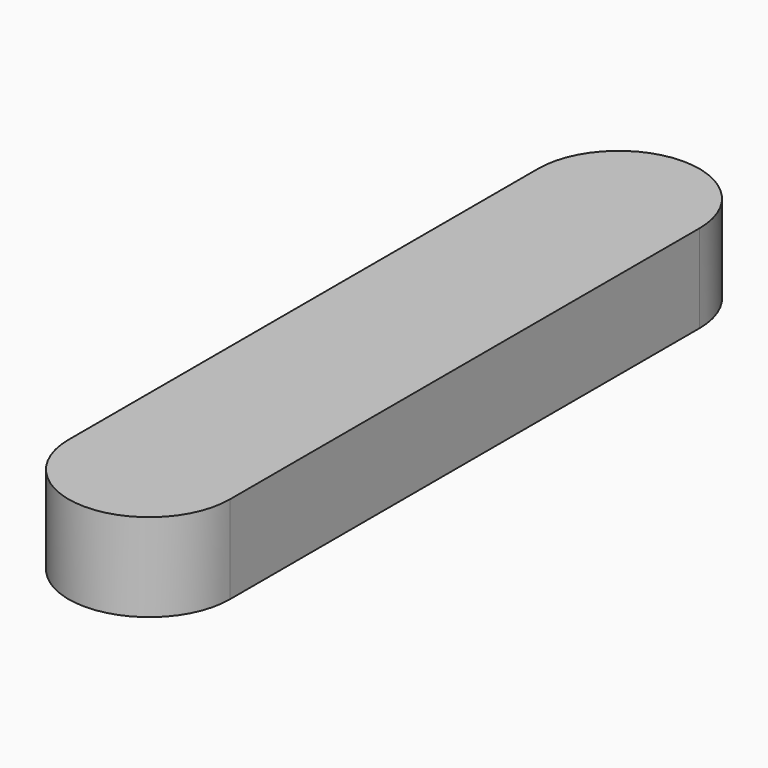
from build123d import *

# Parameters (mm, degrees)
F0_W     = 100
F0_H     = 100
F1_DEPTH = 3
F2_W     = 100
F2_H     = 100
F3_DEPTH = 3.001


with BuildPart() as f1:
    # F0 (on Top) → F1 (new body)
    with BuildSketch(Plane.XY):
        with Locations((50, 0)):
            Rectangle(F0_W, F0_H)
    extrude(amount=F1_DEPTH)

    # F2 (on face) → F3 (cut, through all)
    with BuildSketch(Plane.XY.offset(3)):
        with Locations((50, 0)):
            Rectangle(F2_W, F2_H)
        with BuildLine():
            Line((47.25, -16.755387), (47.25, 3.244613))
            ThreePointArc((47.25, 3.244613), (50, 5.994613), (52.75, 3.244613))
            Line((52.75, 3.244613), (52.75, -16.755387))
            ThreePointArc((52.75, -16.755387), (50, -19.505387), (47.25, -16.755387))
        make_face(mode=Mode.SUBTRACT)
    extrude(amount=-F3_DEPTH, mode=Mode.SUBTRACT)


solid = f1.part
